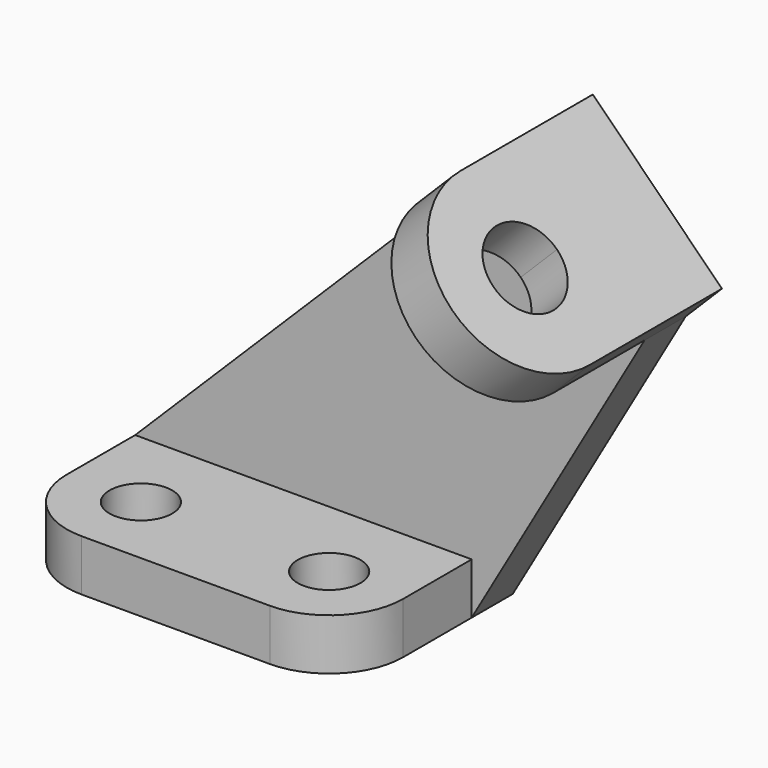
from build123d import *

# Parameters (mm, degrees)
F0_R     = 5.5
F1_DEPTH = 9
F4_DEPTH = 9
F5_DEPTH = 29
F7_DEPTH = 9
F8_DEPTH = 9


with BuildPart() as f1:
    # F0 (on Top) → F1 (new body)
    with BuildSketch(Plane.XY):
        with BuildLine():
            Line((-13, 24), (-13, 0))
            ThreePointArc((-13, 0), (-9.1923881554, -9.1923881554), (0, -13))
            Line((0, -13), (33, -13))
            ThreePointArc((33, -13), (42.1923881554, -9.1923881554), (46, 0))
            Line((46, 0), (46, 24))
            Line((46, 24), (-13, 24))
        make_face()
        Circle(F0_R, mode=Mode.SUBTRACT)
        with BuildLine():
            ThreePointArc((38.5, 0), (33, -5.5), (27.5, 0))
            ThreePointArc((27.5, 0), (33, 5.5), (38.5, 0))
        make_face(mode=Mode.SUBTRACT)
    extrude(amount=F1_DEPTH)

    # F3 (on face) → F4 (join)
    with BuildSketch(Plane(origin=(0, 24, 0), x_dir=(-1, 0, 0), z_dir=(0, 1, 0))):
        Polygon((-65, 64), (-76.313708499, 52.686291501), (-46, 0), (-46, 9), (13, 9), (-53.686291501, 75.313708499), align=None)
    extrude(amount=-F4_DEPTH)

    # F2 (on face) → F5 (join)
    with BuildSketch(Plane(origin=(0, 24, 0), x_dir=(-1, 0, 0), z_dir=(0, 1, 0))):
        Polygon((-76.313708499, 52.686291501), (-65, 64), (-53.686291501, 75.313708499), (-60.0502525317, 81.6776695297), (-82.6776695297, 59.0502525317), align=None)
    extrude(amount=-F5_DEPTH)

    # F6 (on face) → F7 (cut)
    with BuildSketch(Plane(origin=(70.8639610307, 0, 70.8639610307), x_dir=(0, 1, 0), z_dir=(0.7071067812, 0, 0.7071067812))):
        with BuildLine():
            ThreePointArc((2, -0.7071067812), (-0.0502525317, 4.2426406871), (-5, 6.2928932188))
            Line((-5, 6.2928932188), (-5, -7.7071067812))
            ThreePointArc((-5, -7.7071067812), (-0.0502525317, -5.6568542495), (2, -0.7071067812))
        make_face()
    extrude(amount=-F7_DEPTH, mode=Mode.SUBTRACT)

    # F6 (on face) → F8 (join)
    with BuildSketch(Plane(origin=(70.8639610307, 0, 70.8639610307), x_dir=(0, 1, 0), z_dir=(0.7071067812, 0, 0.7071067812))):
        with BuildLine():
            Line((-5, 6.2928932188), (-5, 15.2928932188))
            ThreePointArc((-5, 15.2928932188), (-21, -0.7071067812), (-5, -16.7071067812))
            Line((-5, -16.7071067812), (-5, -7.7071067812))
            ThreePointArc((-5, -7.7071067812), (-12, -0.7071067812), (-5, 6.2928932188))
        make_face()
    extrude(amount=-F8_DEPTH)


solid = f1.part
